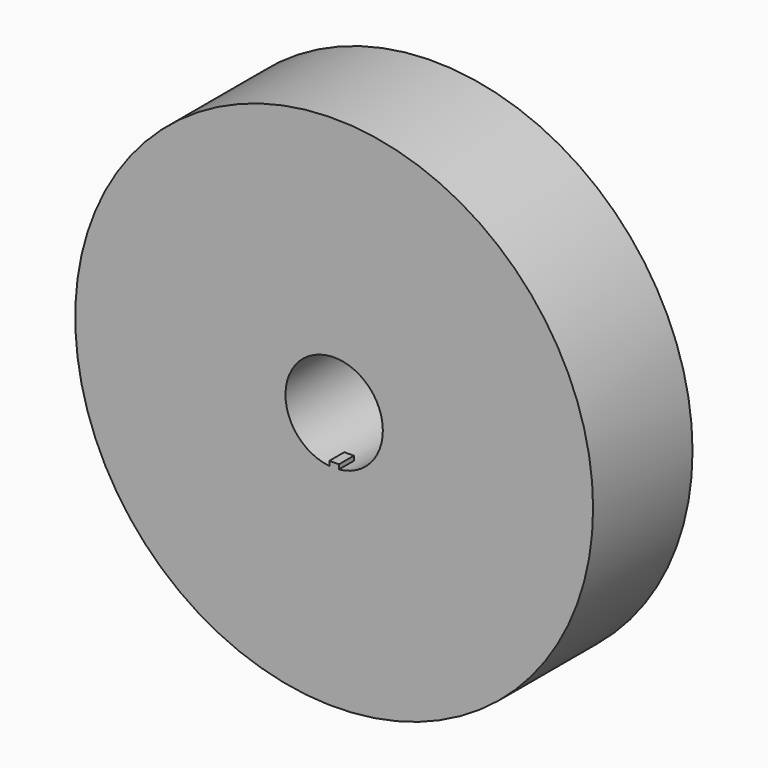
from build123d import *

# Parameters (mm, degrees)
F0_R     = 15.875
F0_R_2   = 2.9845
F1_DEPTH = 7.62
F3_DEPTH = 1.143


with BuildPart() as f1:
    # F0 (on Front) → F1 (new body)
    with BuildSketch(Plane.XZ):
        Circle(F0_R)
        Circle(F0_R_2, mode=Mode.SUBTRACT)
    extrude(amount=F1_DEPTH)

    # F2 (on face) → F3 (join)
    with BuildSketch(Plane.XZ.offset(7.62)):
        with BuildLine():
            Line((0.2921, -2.6924), (-0.2921, -2.6924))
            Line((-0.2921, -2.6924), (-0.2921, -2.9701713486))
            ThreePointArc((-0.2921, -2.9701713486), (0, -2.9845), (0.2921, -2.9701713486))
            Line((0.2921, -2.9701713486), (0.2921, -2.6924))
        make_face()
    extrude(amount=-F3_DEPTH)


solid = f1.part
